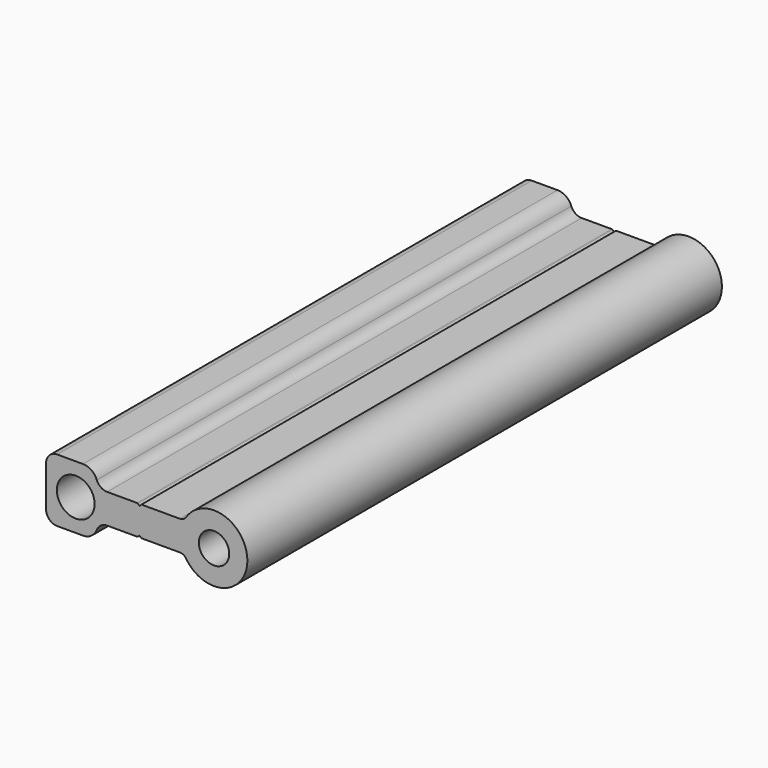
from build123d import *

# Parameters (mm, degrees)
F0_R     = 5.1
F0_R_2   = 4.1
F1_DEPTH = 160


with BuildPart() as f1:
    # F0 (on Front) → F1 (new body)
    with BuildSketch(Plane.XZ):
        with BuildLine():
            ThreePointArc((-9.219544, -4), (-8.266082, -4.241902), (-7.543264, -4.909091))
            ThreePointArc((-7.543264, -4.909091), (9, 0), (-7.543264, 4.909091))
            ThreePointArc((-7.543264, 4.909091), (-8.266082, 4.241902), (-9.219544, 4))
            Line((-9.219544, 4), (-19.475736, 4))
            ThreePointArc((-19.475736, 4), (-19.590541, 3.977164), (-19.687868, 3.912132))
            Line((-19.687868, 3.912132), (-20.1, 3.5))
            Line((-20.1, 3.5), (-20.512132, 3.912132))
            ThreePointArc((-20.512132, 3.912132), (-20.609459, 3.977164), (-20.724264, 4))
            Line((-20.724264, 4), (-28.821652, 4))
            ThreePointArc((-28.821652, 4), (-30.522492, 4.528737), (-31.623801, 5.928571))
            ThreePointArc((-31.623801, 5.928571), (-33.092213, 7.795018), (-35.36, 8.5))
            Line((-35.36, 8.5), (-42.3, 8.5))
            ThreePointArc((-42.3, 8.5), (-44.42132, 7.62132), (-45.3, 5.5))
            Line((-45.3, 5.5), (-45.3, -5.5))
            ThreePointArc((-45.3, -5.5), (-44.42132, -7.62132), (-42.3, -8.5))
            Line((-42.3, -8.5), (-35.36, -8.5))
            ThreePointArc((-35.36, -8.5), (-33.092213, -7.795018), (-31.623801, -5.928571))
            ThreePointArc((-31.623801, -5.928571), (-30.522492, -4.528737), (-28.821652, -4))
            Line((-28.821652, -4), (-20.724264, -4))
            ThreePointArc((-20.724264, -4), (-20.609459, -3.977164), (-20.512132, -3.912132))
            Line((-20.512132, -3.912132), (-20.1, -3.5))
            Line((-20.1, -3.5), (-19.687868, -3.912132))
            ThreePointArc((-19.687868, -3.912132), (-19.590541, -3.977164), (-19.475736, -4))
            Line((-19.475736, -4), (-9.219544, -4))
        make_face()
        with Locations((-37.3, 0)):
            Circle(F0_R, mode=Mode.SUBTRACT)
        Circle(F0_R_2, mode=Mode.SUBTRACT)
    extrude(amount=F1_DEPTH)


solid = f1.part
